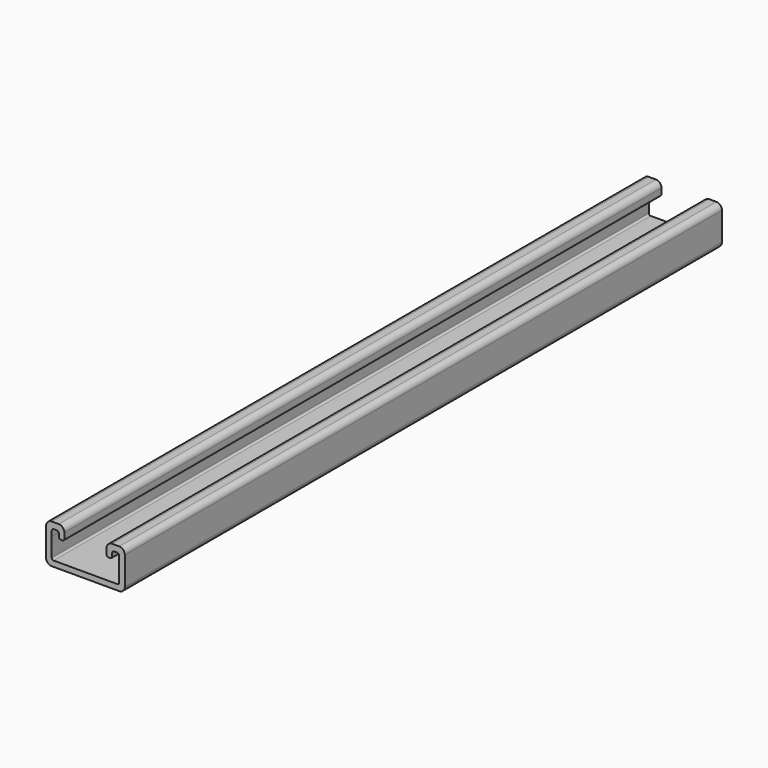
from build123d import *

# Parameters (mm, degrees)
F1_DEPTH = 398
F2_R     = 3
F3_R     = 1


with BuildPart() as f1:
    # F0 (on Front) → F1 (new body)
    with BuildSketch(Plane.XZ):
        Polygon((0, 21), (0, 0), (42, 0), (42, 21), (32.25, 21), (32.25, 14), (35.25, 14), (35.25, 17.75), (39, 17.75), (39, 14), (39, 3), (3, 3), (3, 14), (3.015397, 14), (3.015397, 17.75), (6.765397, 17.75), (6.765397, 14), (9.75, 14), (9.75, 21), align=None)
    extrude(amount=F1_DEPTH)

    # F2
    f2_edges = [f1.edges().sort_by_distance(p)[0] for p in [
        (0, -199, 21),
        (9.75, -199, 21),
        (32.25, -199, 21),
        (42, -199, 21),
        (0, -199, 0),
        (42, -199, 0),
    ]]
    fillet(f2_edges, radius=F2_R)

    # F3
    f3_edges = [f1.edges().sort_by_distance(p)[0] for p in [
        (6.765397, -199, 14),
        (32.25, -199, 14),
        (35.25, -199, 14),
        (9.75, -199, 14),
        (3, -199, 3),
        (39, -199, 3),
        (39, -199, 17.75),
        (3.015397, -199, 17.75),
        (35.25, -199, 17.75),
        (6.765397, -199, 17.75),
    ]]
    fillet(f3_edges, radius=F3_R)


solid = f1.part
